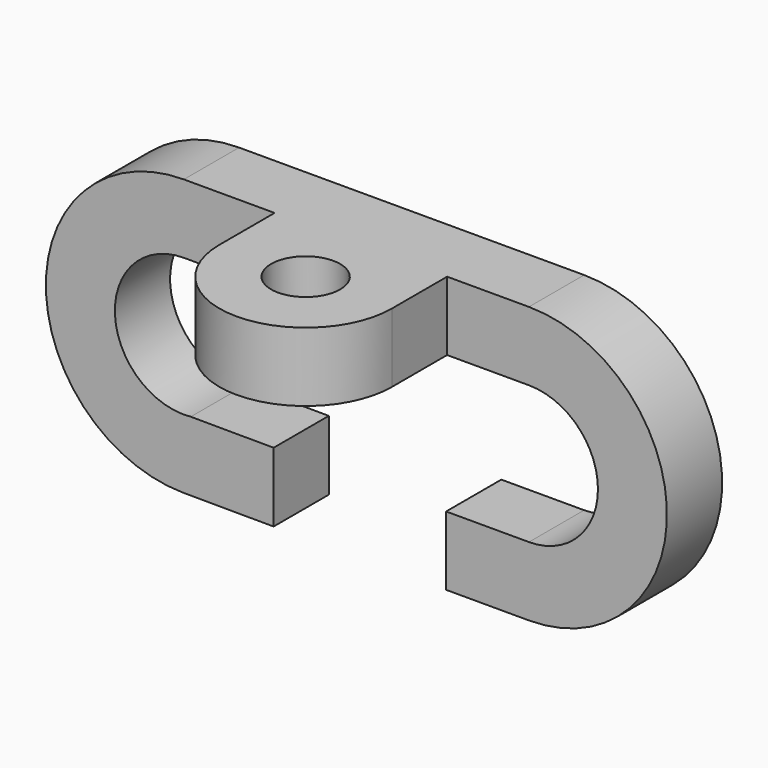
from build123d import *

# Parameters (mm, degrees)
F1_DEPTH = 12.7
F2_R     = 6.35
F3_DEPTH = 12.7


with BuildPart() as f1:
    # F0 (on Front) → F1 (new body)
    with BuildSketch(Plane.XZ):
        with BuildLine():
            Line((18.229564, 32.008553), (-45.270436, 32.008553))
            ThreePointArc((-45.270436, 32.008553), (-70.670381, 6.661614), (-45.376558, -18.791225))
            Line((-45.376558, -18.791225), (-28.760436, -18.860648))
            Line((-28.760436, -18.860648), (-28.760436, -6.091447))
            Line((-28.760436, -6.091447), (-44.000303, -6.027774))
            ThreePointArc((-44.000303, -6.027774), (-57.954508, 5.972689), (-45.270436, 19.308553))
            Line((-45.270436, 19.308553), (18.229564, 19.308553))
            ThreePointArc((18.229564, 19.308553), (30.929564, 6.608553), (18.229564, -6.091447))
            Line((18.229564, -6.091447), (2.989564, -6.091447))
            Line((2.989564, -6.091447), (2.989564, -18.791447))
            Line((2.989564, -18.791447), (18.229564, -18.791447))
            ThreePointArc((18.229564, -18.791447), (43.629564, 6.608553), (18.229564, 32.008553))
        make_face()
    extrude(amount=F1_DEPTH)

    # F2 (on face) → F3 (join)
    with BuildSketch(Plane(origin=(0, 0, 19.308553), x_dir=(1, 0, 0), z_dir=(0, 0, -1))):
        with BuildLine():
            Line((3.172901, 12.7), (3.172901, 25.4))
            ThreePointArc((3.172901, 25.4), (-12.702099, 41.275), (-28.577099, 25.4))
            Line((-28.577099, 25.4), (-28.577099, 12.7))
            Line((-28.577099, 12.7), (3.172901, 12.7))
        make_face()
        with Locations((-12.702099, 25.4)):
            Circle(F2_R, mode=Mode.SUBTRACT)
    extrude(amount=-F3_DEPTH)


solid = f1.part
